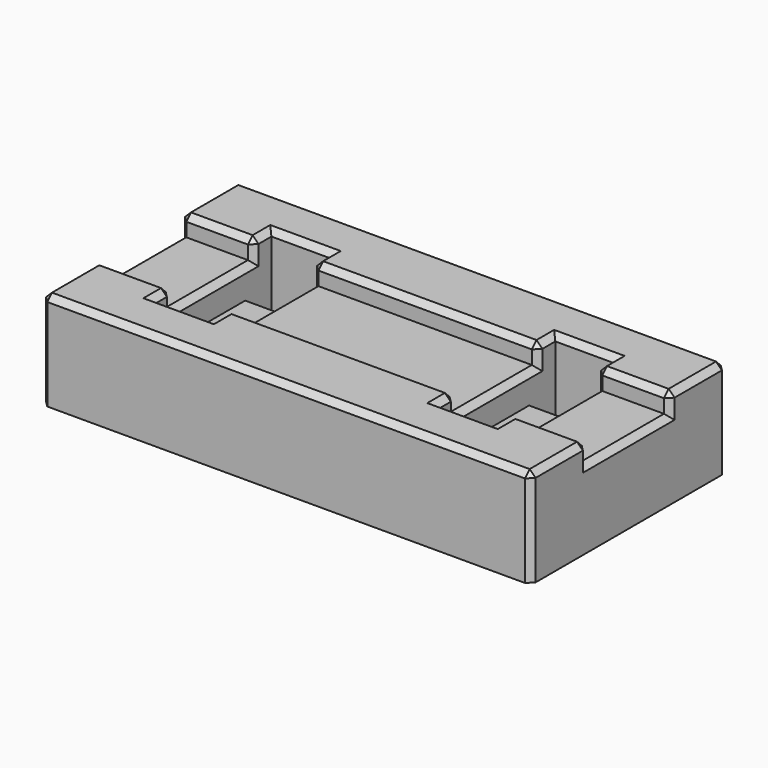
from build123d import *

# Parameters (mm, degrees)
SKETCH_W        = 50
SKETCH_H        = 25
PAD_DEPTH       = 10
SKETCH001_W     = 50
SKETCH001_H     = 10.5
POCKET_DEPTH    = 2
SKETCH002_W     = 6
SKETCH002_H     = 15
POCKET001_DEPTH = 5
SKETCH003_W     = 6
SKETCH003_H     = 2.75
POCKET002_DEPTH = 5
CHAMFER_SIZE    = 0.6


with BuildPart() as part:
    # Sketch → Pad (new body)
    with BuildSketch(Plane.XY):
        with Locations((25, 12.5)):
            Rectangle(SKETCH_W, SKETCH_H)
    extrude(amount=PAD_DEPTH)

    # Sketch001 (on Face6 of Pad) → Pocket (cut)
    with BuildSketch(Plane.XY.offset(10)):
        with Locations((25, 12.5)):
            Rectangle(SKETCH001_W, SKETCH001_H)
    extrude(amount=-POCKET_DEPTH, mode=Mode.SUBTRACT)

    # Sketch002 (on Face9 of Pocket) → Pocket001 (cut)
    with BuildSketch(Plane.XY.offset(10)):
        with Locations((10.5, 12.5)):
            Rectangle(SKETCH002_W, SKETCH002_H)
        with Locations((39.5, 12.5)):
            Rectangle(SKETCH002_W, SKETCH002_H)
    extrude(amount=-POCKET001_DEPTH, mode=Mode.SUBTRACT)

    # Sketch003 (on Face24 of Pocket001) → Pocket002 (cut)
    with BuildSketch(Plane.XY.offset(5)):
        with Locations((10.5, 18.625)):
            Rectangle(SKETCH003_W, SKETCH003_H)
        with Locations((39.5, 18.625)):
            Rectangle(SKETCH003_W, SKETCH003_H)
    extrude(amount=-POCKET002_DEPTH, mode=Mode.SUBTRACT)

    # Chamfer
    chamfer_edges = [part.edges().sort_by_distance(p)[0] for p in [
        (25, 25, 10),
        (0, 21.375, 10),
        (3.75, 17.75, 10),
        (7.5, 18.875, 10),
        (10.5, 20, 10),
        (13.5, 18.875, 10),
        (25, 17.75, 10),
        (36.5, 18.875, 10),
        (39.5, 20, 10),
        (46.25, 17.75, 10),
        (50, 21.375, 10),
        (50, 12.5, 8),
        (50, 17.75, 9),
        (42.5, 12.5, 8),
        (46.25, 7.25, 10),
        (50, 7.25, 9),
        (42.5, 6.125, 10),
        (39.5, 5, 10),
        (36.5, 6.125, 10),
        (25, 7.25, 10),
        (13.5, 6.125, 10),
        (10.5, 5, 10),
        (7.5, 6.125, 10),
        (3.75, 7.25, 10),
        (7.5, 12.5, 8),
        (13.5, 12.5, 8),
        (36.5, 12.5, 8),
        (0, 12.5, 8),
        (0, 17.75, 9),
        (0, 7.25, 9),
        (0, 3.625, 10),
        (25, 0, 10),
        (50, 3.625, 10),
        (42.5, 18.875, 10),
        (7.5, 7.25, 9),
        (7.5, 17.75, 9),
        (13.5, 7.25, 9),
        (36.5, 7.25, 9),
        (36.5, 17.75, 9),
        (42.5, 17.75, 9),
        (42.5, 7.25, 9),
        (13.5, 17.75, 9),
        (0, 0, 5),
        (0, 25, 5),
        (50, 0, 5),
        (50, 25, 5),
        (39.5, 17.25, 5),
        (10.5, 17.25, 5),
    ]]
    chamfer(chamfer_edges, length=CHAMFER_SIZE)


solid = part.part
